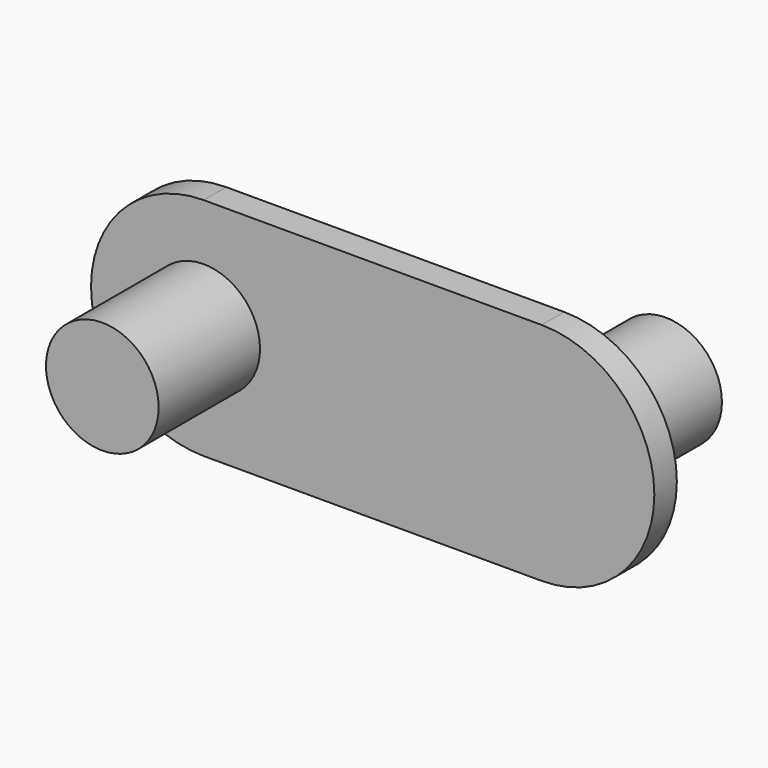
from build123d import *

# Parameters (mm, degrees)
F0_R     = 5
F1_DEPTH = 1.25
F2_DEPTH = 12.5
F3_DEPTH = 12.5


with BuildPart() as f1:
    # F0 (on Front) → F1 (new body, symmetric)
    with BuildSketch(Plane.XZ):
        with BuildLine():
            ThreePointArc((0, 20), (-10, 10), (0, 0))
            Line((0, 0), (30, 0))
            ThreePointArc((30, 0), (40, 10), (30, 20))
            Line((30, 20), (0, 20))
        make_face()
        with Locations((0, 10)):
            Circle(F0_R, mode=Mode.SUBTRACT)
        with Locations((30, 10)):
            Circle(F0_R, mode=Mode.SUBTRACT)
        with Locations((30, 10)):
            Circle(F0_R)
        with Locations((0, 10)):
            Circle(F0_R)
    extrude(amount=F1_DEPTH, both=True)

    # F0 (on Front) → F2 (join)
    with BuildSketch(Plane.XZ):
        with Locations((0, 10)):
            Circle(F0_R)
    extrude(amount=F2_DEPTH)

    # F0 (on Front) → F3 (join)
    with BuildSketch(Plane.XZ):
        with Locations((30, 10)):
            Circle(F0_R)
    extrude(amount=-F3_DEPTH)


solid = f1.part
